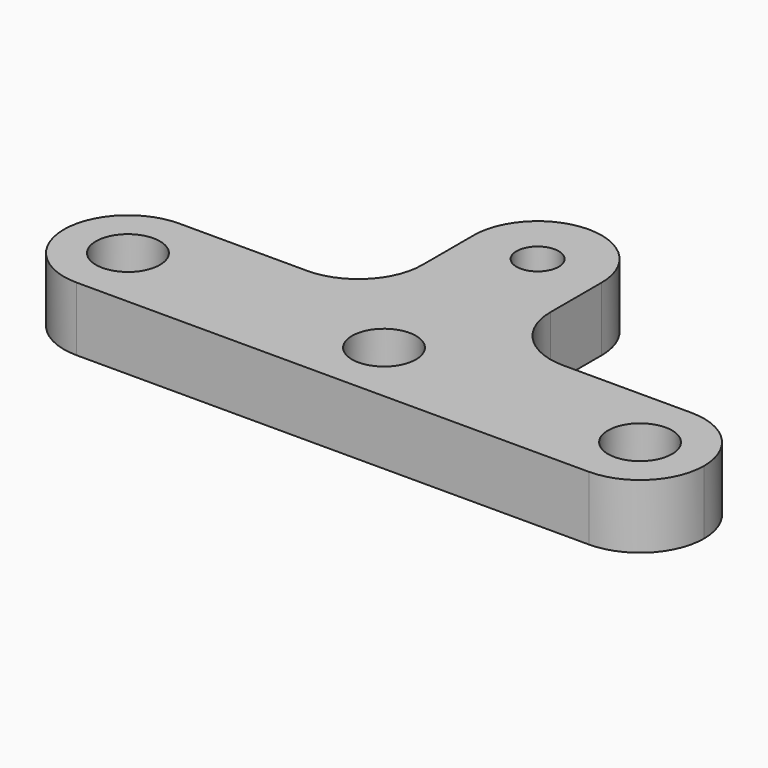
from build123d import *

# Parameters (mm, degrees)
F0_R     = 3.175
F0_R_2   = 2.0955
F1_DEPTH = 6.35
F5_D     = 2.2606
F5_DEPTH = 5.08
F5_START = 0.1014065
F5_TIP   = 0.6791527577


with BuildPart() as f1:
    # F0 (on Top) → F1 (new body)
    with BuildSketch(Plane.XY):
        with BuildLine():
            ThreePointArc((-25.4, -6.35), (-20.9098719395, -4.4901280605), (-19.05, 0))
            ThreePointArc((-19.05, 0), (-20.9098719395, 4.4901280605), (-25.4, 6.35))
            ThreePointArc((-25.4, 6.35), (-31.75, 0), (-25.4, -6.35))
        make_face()
        with Locations((-25.4, 0)):
            Circle(F0_R, mode=Mode.SUBTRACT)
        with BuildLine():
            ThreePointArc((-25.4, 6.35), (-20.9098719395, 4.4901280605), (-19.05, 0))
            ThreePointArc((-19.05, 0), (-20.9098719395, -4.4901280605), (-25.4, -6.35))
            Line((-25.4, -6.35), (25.4, -6.35))
            ThreePointArc((25.4, -6.35), (19.05, 0), (25.4, 6.35))
            Line((25.4, 6.35), (12.7, 6.35))
            ThreePointArc((12.7, 6.35), (8.2098719395, 8.2098719395), (6.35, 12.7))
            Line((6.35, 12.7), (6.35, 19.05))
            ThreePointArc((6.35, 19.05), (0, 12.7), (-6.35, 19.05))
            Line((-6.35, 19.05), (-6.35, 12.7))
            ThreePointArc((-6.35, 12.7), (-8.2098719395, 8.2098719395), (-12.7, 6.35))
            Line((-12.7, 6.35), (-25.4, 6.35))
        make_face()
        Circle(F0_R, mode=Mode.SUBTRACT)
        with BuildLine():
            ThreePointArc((25.4, 6.35), (19.05, 0), (25.4, -6.35))
            ThreePointArc((25.4, -6.35), (29.8901280605, -4.4901280605), (31.75, 0))
            ThreePointArc((31.75, 0), (29.8901280605, 4.4901280605), (25.4, 6.35))
        make_face()
        with Locations((25.4, 0)):
            Circle(F0_R, mode=Mode.SUBTRACT)
        with BuildLine():
            ThreePointArc((6.35, 19.05), (0, 25.4), (-6.35, 19.05))
            ThreePointArc((-6.35, 19.05), (0, 12.7), (6.35, 19.05))
        make_face()
        with Locations((0, 19.05)):
            Circle(F0_R_2, mode=Mode.SUBTRACT)
    extrude(amount=F1_DEPTH)

    # F5
    # its depths count from where the whole tool has entered the part; down to there all is cleared
    with Locations(Plane(origin=(0, 25.4, 0), x_dir=(1, 0, 0), z_dir=(0, 1, 0)).offset(-F5_START)):
        with Locations((0, -3.175)):
            Hole(F5_D / 2, depth=F5_DEPTH)
            with Locations((0, 0, -(F5_DEPTH + F5_TIP / 2))):  # 118° drill point
                Cone(0, F5_D / 2, F5_TIP, mode=Mode.SUBTRACT)


solid = f1.part
